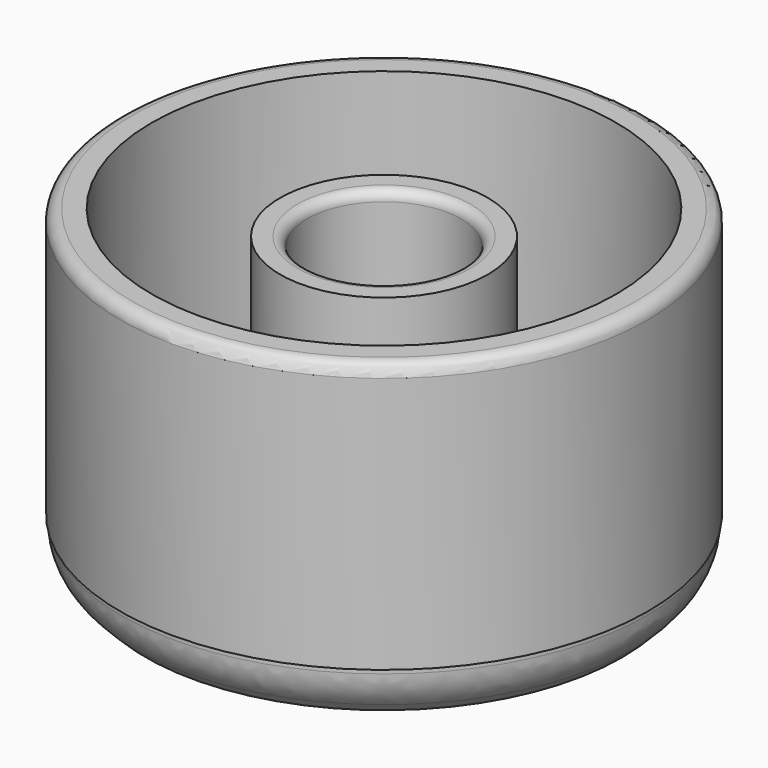
from build123d import *

# Parameters (mm, degrees)
F0_R     = 4.25
F0_R_2   = 3.15
F1_DEPTH = 10
F2_R     = 10.8
F2_R_2   = 9.5
F3_DEPTH = 11
F4_R     = 10.7477033558
F5_DEPTH = 2
F6_W     = 1
F6_H     = 6
F7_DEPTH = 5
F8_SIZE  = 1
F9_R     = 2
F10_R    = 0.5
F11_R    = 0.4


with BuildPart() as f1:
    # F0 (on Top) → F1 (new body)
    with BuildSketch(Plane.XY):
        Circle(F0_R)
        Circle(F0_R_2, mode=Mode.SUBTRACT)
    extrude(amount=F1_DEPTH)

    # F11
    f11_edges = [f1.edges().sort_by_distance(p)[0] for p in [
        (-3.15, 0, 10),
    ]]
    fillet(f11_edges, radius=F11_R)


with BuildPart() as f3:
    # F2 (on Top) → F3 (new body)
    with BuildSketch(Plane.XY):
        Circle(F2_R)
        Circle(F2_R_2, mode=Mode.SUBTRACT)
    extrude(amount=F3_DEPTH)

    # F10
    f10_edges = [f3.edges().sort_by_distance(p)[0] for p in [
        (-10.8, 0, 11),
    ]]
    fillet(f10_edges, radius=F10_R)


with BuildPart() as f5:
    # F4 (on Top) → F5 (new body)
    with BuildSketch(Plane.XY):
        Circle(F4_R)
    extrude(amount=-F5_DEPTH)

    # F8
    f8_edges = [f5.edges().sort_by_distance(p)[0] for p in [
        (-10.747703, 0, -2),
    ]]
    chamfer(f8_edges, length=F8_SIZE)

    # F9
    f9_edges = [f5.edges().sort_by_distance(p)[0] for p in [
        (-10.747703, 0, -1),
    ]]
    fillet(f9_edges, radius=F9_R)


with BuildPart() as f7:
    # F6 (on face) → F7 (new body)
    with BuildSketch(Plane.XY):
        Rectangle(F6_W, F6_H)
    extrude(amount=F7_DEPTH)


solid = Compound([f1.part, f3.part, f5.part, f7.part])
